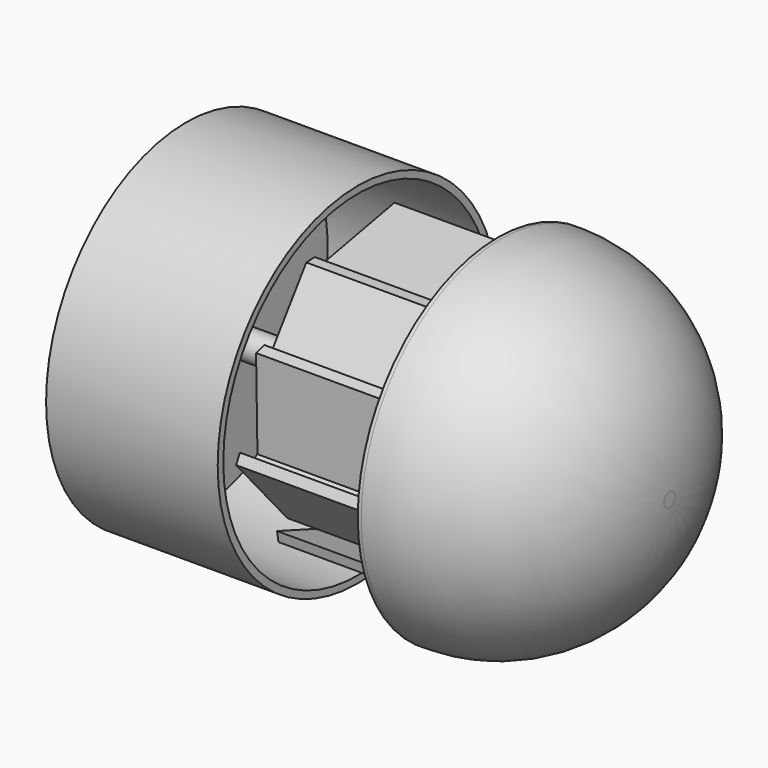
from build123d import *

# Parameters (mm, degrees)
F0_R          = 63.5
F1_DEPTH      = 62.24945
F2_R          = 60.96
F4_DEPTH      = 50.8
F4_DEPTH_BACK = 16.256
F5_R          = 63.5
F6_DEPTH      = 62.2554
F7_T          = -2.54
F9_DEPTH      = 62.103


with BuildPart() as f1:
    # F0 (on Right) → F1 (new body)
    with BuildSketch(Plane.YZ):
        Circle(F0_R)
    extrude(amount=F1_DEPTH)

    # F2
    f2_edges = [f1.edges().sort_by_distance(p)[0] for p in [
        (62.24945, -63.5, 0),
    ]]
    fillet(f2_edges, radius=F2_R)


with BuildPart() as f4:
    # F3 (on Right) → F4 (new body, two sides)
    with BuildSketch(Plane.YZ) as f4_sk:
        Polygon((-1.955101948, -50.163542701), (0, -53.4336614103), (25.0391010195, -40.580611676), align=None)
    extrude(amount=-F4_DEPTH)
    extrude(f4_sk.sketch, amount=F4_DEPTH_BACK)


with BuildPart() as f4b:
    # F3 (on Right) → F4, piece 2 (new body, two sides)
    with BuildSketch(Plane.YZ) as f4_2_sk:
        Polygon((26.0707854024, -45.5552686947), (29.8210470804, -44.8832290032), (44.897697866, -23.0244621634), align=None)
    extrude(amount=-F4_DEPTH)
    extrude(f4_2_sk.sketch, amount=F4_DEPTH_BACK)


with BuildPart() as f4c:
    # F3 (on Right) → F4, piece 3 (new body, two sides)
    with BuildSketch(Plane.YZ) as f4_3_sk:
        Polygon((52.2568273798, 0), (53.7059360548, 3.5236606034), (41.1562249064, 20.1464034617), align=None)
    extrude(amount=-F4_DEPTH)
    extrude(f4_3_sk.sketch, amount=F4_DEPTH_BACK)


with BuildPart() as f4d:
    # F3 (on Right) → F4, piece 4 (new body, two sides)
    with BuildSketch(Plane.YZ) as f4_4_sk:
        Polygon((43.3945142875, 22.8171946295), (43.6342630245, 26.6196439116), (21.0098214447, 45.761115849), align=None)
    extrude(amount=-F4_DEPTH)
    extrude(f4_4_sk.sketch, amount=F4_DEPTH_BACK)


with BuildPart() as f4e:
    # F3 (on Right) → F4, piece 5 (new body, two sides)
    with BuildSketch(Plane.YZ) as f4_5_sk:
        Polygon((16.6557277501, 51.3344621912), (-16.9805381447, 44.897697866), (19.3950152489, 48.6863677823), align=None)
    extrude(amount=-F4_DEPTH)
    extrude(f4_5_sk.sketch, amount=F4_DEPTH_BACK)


with BuildPart() as f4f:
    # F3 (on Right) → F4, piece 6 (new body, two sides)
    with BuildSketch(Plane.YZ) as f4_6_sk:
        Polygon((48.3513660729, 0), (48.8783985368, -24.6061846119), (51.3182857052, -21.6799155529), align=None)
    extrude(amount=-F4_DEPTH)
    extrude(f4_6_sk.sketch, amount=F4_DEPTH_BACK)


with BuildPart() as f4g:
    # F3 (on Right) → F4, piece 7 (new body, two sides)
    with BuildSketch(Plane.YZ) as f4_7_sk:
        Polygon((-19.5124534153, 48.6656255959), (-23.3175503217, 48.4723963729), (-38.8537757099, 26.7659369856), align=None)
    extrude(amount=-F4_DEPTH)
    extrude(f4_7_sk.sketch, amount=F4_DEPTH_BACK)


with BuildPart() as f4h:
    # F3 (on Right) → F4, piece 8 (new body, two sides)
    with BuildSketch(Plane.YZ) as f4_8_sk:
        Polygon((-42.459197757, 29.9244048684), (-46.1041254278, 28.8150797244), (-45.4733073711, -3.7414748222), align=None)
    extrude(amount=-F4_DEPTH)
    extrude(f4_8_sk.sketch, amount=F4_DEPTH_BACK)


with BuildPart() as f4i:
    # F3 (on Right) → F4, piece 9 (new body, two sides)
    with BuildSketch(Plane.YZ) as f4_9_sk:
        Polygon((-31.946439296, -29.6439938247), (-53.4207742141, 0), (-55.1602899412, -3.2931519431), align=None)
    extrude(amount=-F4_DEPTH)
    extrude(f4_9_sk.sketch, amount=F4_DEPTH_BACK)


with BuildPart() as f4j:
    # F3 (on Right) → F4, piece 10 (new body, two sides)
    with BuildSketch(Plane.YZ) as f4_10_sk:
        Polygon((-36.5766024575, -31.9176514561), (-35.9502403438, -35.6758119772), (0, -45.280836776), align=None)
    extrude(amount=-F4_DEPTH)
    extrude(f4_10_sk.sketch, amount=F4_DEPTH_BACK)


with BuildPart() as f6:
    # F5 (on face) → F6 (new body)
    with BuildSketch(Plane(origin=(-50.8, 0, 0), x_dir=(0, -1, 0), z_dir=(-1, 0, 0))):
        Circle(F5_R)
    extrude(amount=F6_DEPTH)

    # F7
    f7_openings = [f6.faces().sort_by_distance(p)[0] for p in [
        (-50.8, 0, 0),
    ]]
    offset(amount=F7_T, openings=f7_openings)


with BuildPart() as f9:
    # F8 (on face) → F9 (new body)
    with BuildSketch(Plane(origin=(-50.8, 0, 0), x_dir=(0, -1, 0), z_dir=(-1, 0, 0))):
        with BuildLine():
            Line((-5.08, 0), (0, 0))
            Line((0, 0), (5.08, 0))
            ThreePointArc((5.08, 0), (0, 5.08), (-5.08, 0))
        make_face()
        with BuildLine():
            Line((5.08, 0), (0, 0))
            Line((0, 0), (-5.08, 0))
            ThreePointArc((-5.08, 0), (0, -5.08), (5.08, 0))
        make_face()
    extrude(amount=F9_DEPTH)


solid = Compound([f1.part, f4.part, f4b.part, f4c.part, f4d.part, f4e.part, f4f.part, f4g.part, f4h.part, f4i.part, f4j.part, f6.part, f9.part])
